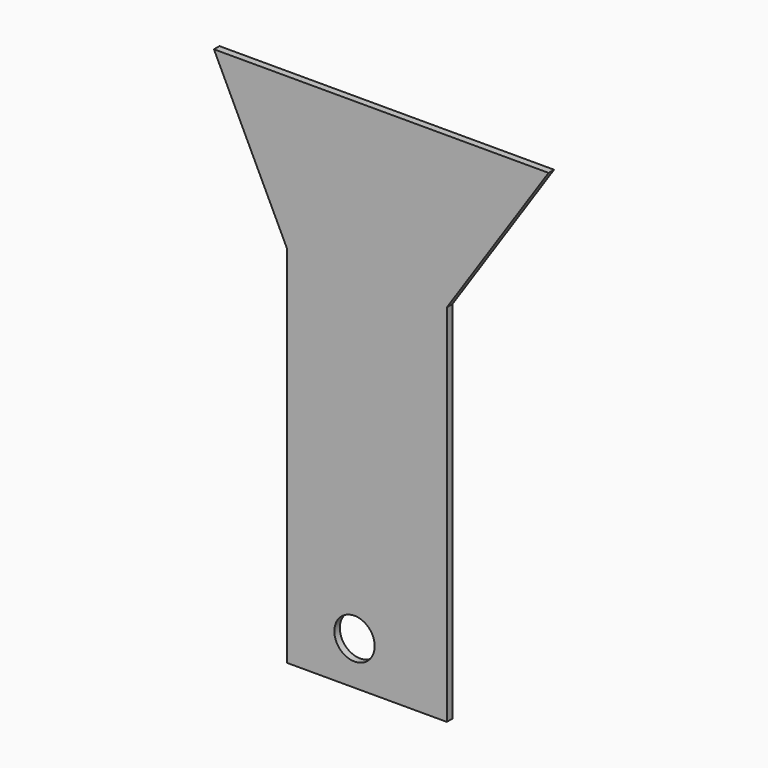
from build123d import *

# Parameters (mm, degrees)
F0_W       = 99
F0_H       = 150
F1_DEPTH   = 1
F1_FACE1_W = 99
F1_FACE1_H = 150
F2_R       = 5.8629456908
F3_DEPTH   = 1
F4_DEPTH   = 25
F6_DEPTH   = 25


with BuildPart() as f1:
    # F0 (on Front) → F1 (new body)
    with BuildSketch(Plane.XZ):
        Rectangle(F0_W, F0_H)
    extrude(amount=F1_DEPTH)

    # F1_face1 (on face) + F2 (on face) → F3 (join)
    with BuildSketch(Plane.XZ.offset(1)):
        Rectangle(F1_FACE1_W, F1_FACE1_H)
    with BuildSketch(Plane(origin=(0, 0, 0), x_dir=(-1, 0, 0), z_dir=(0, 1, 0))):
        with Locations((6.8623106927, -62.4270327389)):
            Circle(F2_R)
    extrude(amount=F3_DEPTH, dir=(0, -1, 0))

    # F2 (on face) → F4 (cut)
    with BuildSketch(Plane(origin=(0, 0, 0), x_dir=(-1, 0, 0), z_dir=(0, 1, 0))):
        with Locations((6.8623106927, -62.4270327389)):
            Circle(F2_R)
    extrude(amount=-F4_DEPTH, mode=Mode.SUBTRACT)

    # F5 (on face) → F6 (cut)
    with BuildSketch(Plane(origin=(0, 0, 0), x_dir=(-1, 0, 0), z_dir=(0, 1, 0))):
        Polygon((-49.5, -75), (-19.9534265946, -75), (-19.9534265946, 31), (-23.702466874, 36.5829747168), (-46.8139478722, 71), (-49.5, 75), align=None)
        Polygon((26.5, 31), (26.5, -75), (49.5, -75), (49.5, 75), (47.6940077596, 75), (45.7672797814, 71), (29.1892183971, 36.5829747168), align=None)
    extrude(amount=-F6_DEPTH, mode=Mode.SUBTRACT)


solid = f1.part
